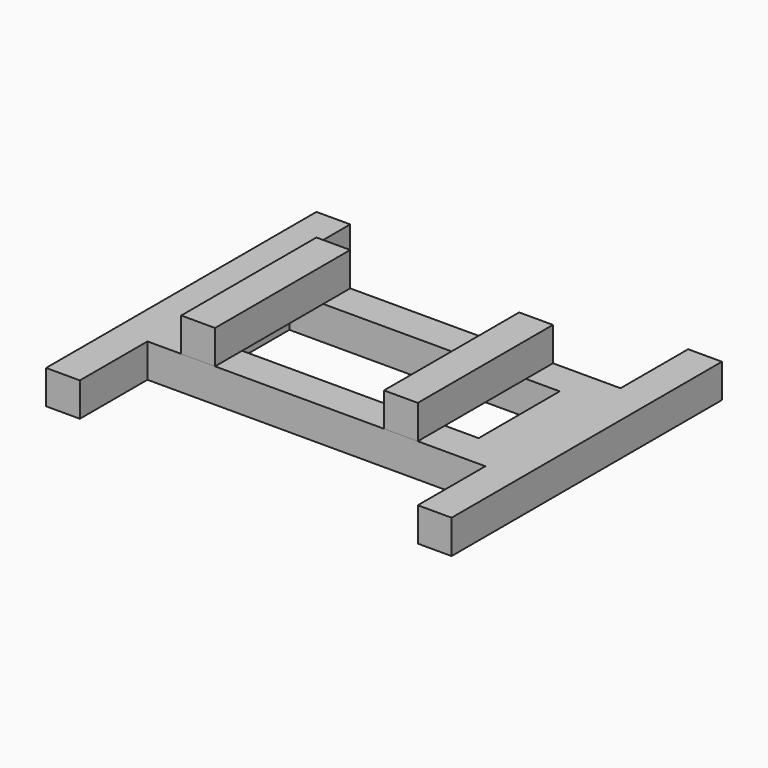
from build123d import *

# Parameters (mm, degrees)
F0_W     = 80
F0_H     = 30
F1_DEPTH = 10
F2_W     = 10
F2_H     = 10
F3_DEPTH = 50


with BuildPart() as f1:
    # F0 (on Top) → F1 (new body)
    with BuildSketch(Plane.XY):
        Polygon((50, 25), (-50, 25), (-50, 50), (-60, 50), (-60, -50), (-50, -50), (-50, -25), (50, -25), (50, -50), (60, -50), (60, 50), (50, 50), align=None)
        Rectangle(F0_W, F0_H, mode=Mode.SUBTRACT)
    extrude(amount=F1_DEPTH)


with BuildPart() as f3:
    # F2 (on face) → F3 (new body)
    with BuildSketch(Plane.XZ.offset(25)):
        with Locations((-35, 15)):
            Rectangle(F2_W, F2_H)
        with Locations((25, 15)):
            Rectangle(F2_W, F2_H)
    extrude(amount=-F3_DEPTH)


solid = Compound([f1.part, f3.part])
